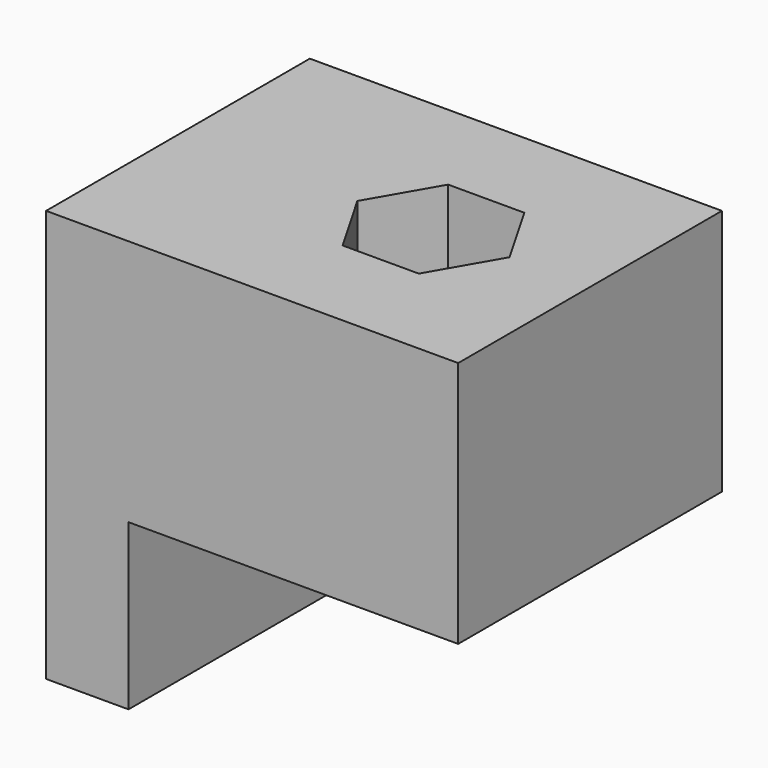
from build123d import *

# Parameters (mm, degrees)
PAD_DEPTH       = 20
SKETCH001_R     = 2.5
POCKET_DEPTH    = 25.001
POCKET001_DEPTH = 5.5
POCKET002_DEPTH = 5.5
SKETCH004_W     = 4.5
SKETCH004_H     = 4.5
PAD001_DEPTH    = 5


with BuildPart() as part:
    # Sketch → Pad (new body)
    with BuildSketch(Plane.XZ):
        Polygon((0, 0), (20, 0), (20, 15), (-5, 15), (-5, -10), (0, -10), align=None)
    extrude(amount=PAD_DEPTH)

    # Sketch001 (on Face3 of Pad) → Pocket (cut, through all)
    with BuildSketch(Plane(origin=(0, 0, 15), x_dir=(-1, 0, 0), z_dir=(0, 0, 1))):
        with Locations((-10.5, 10)):
            Circle(SKETCH001_R)
    extrude(amount=-POCKET_DEPTH, mode=Mode.SUBTRACT)

    # Sketch002 (on Face8 of Pocket) → Pocket001 (cut)
    with BuildSketch(Plane(origin=(0, 0, 15), x_dir=(-1, 0, 0), z_dir=(0, 0, 1))):
        Polygon((-8.190599, 14), (-12.809401, 14), (-15.118802, 10), (-12.809401, 6), (-8.190599, 6), (-5.881198, 10), align=None)
    extrude(amount=-POCKET001_DEPTH, mode=Mode.SUBTRACT)

    # Sketch003 (on Face1 of Pocket001) → Pocket002 (cut)
    with BuildSketch(Plane(origin=(0, 0, 0), x_dir=(1, 0, 0), z_dir=(0, 0, -1))):
        Polygon((10.5, 14.618802), (6.5, 12.309401), (6.5, 7.690599), (10.5, 5.381198), (14.5, 7.690599), (14.5, 12.309401), align=None)
    extrude(amount=-POCKET002_DEPTH, mode=Mode.SUBTRACT)

    # Sketch004 (on Face1 of Pocket002) → Pad001 (join)
    with BuildSketch(Plane(origin=(0, 0, 0), x_dir=(1, 0, 0), z_dir=(0, 0, -1))):
        with Locations((2.25, 10)):
            Rectangle(SKETCH004_W, SKETCH004_H)
    extrude(amount=PAD001_DEPTH)


solid = part.part
